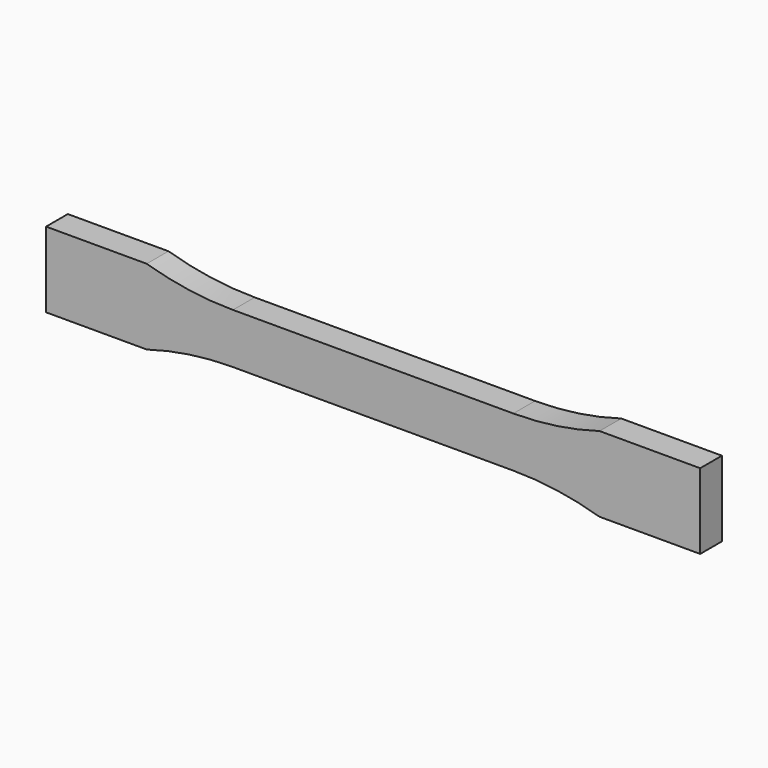
from build123d import *

# Parameters (mm, degrees)
F1_DEPTH = 6.858


with BuildPart() as f1:
    # F0 (on Front) → F1 (new body)
    with BuildSketch(Plane.XZ):
        with BuildLine():
            Line((35.383297, 6.35), (0, 6.35))
            Line((0, 6.35), (-35.383297, 6.35))
            ThreePointArc((-35.383297, 6.35), (-46.381819, 7.147928), (-57.15, 9.525))
            Line((-57.15, 9.525), (-82.55, 9.525))
            Line((-82.55, 9.525), (-82.55, -9.525))
            Line((-82.55, -9.525), (-57.15, -9.525))
            ThreePointArc((-57.15, -9.525), (-46.381819, -7.147928), (-35.383297, -6.35))
            Line((-35.383297, -6.35), (0, -6.35))
            Line((0, -6.35), (35.383297, -6.35))
            ThreePointArc((35.383297, -6.35), (46.381819, -7.147928), (57.15, -9.525))
            Line((57.15, -9.525), (82.55, -9.525))
            Line((82.55, -9.525), (82.55, 9.525))
            Line((82.55, 9.525), (57.15, 9.525))
            ThreePointArc((57.15, 9.525), (46.381819, 7.147928), (35.383297, 6.35))
        make_face()
    extrude(amount=F1_DEPTH)


solid = f1.part
